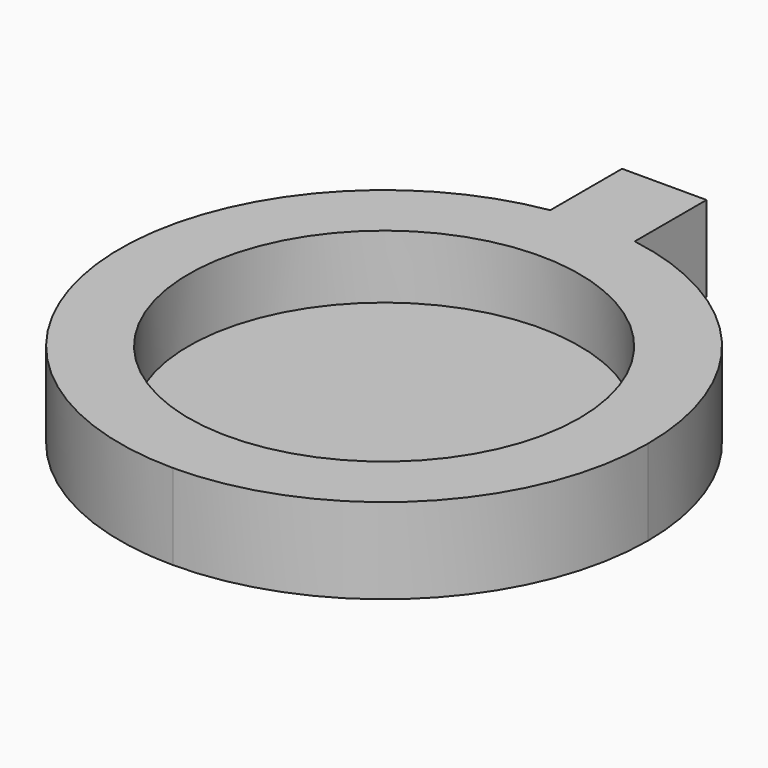
from build123d import *

# Parameters (mm, degrees)
F1_DEPTH = 8.1
F3_R     = 18.5
F4_DEPTH = 6


with BuildPart() as f1:
    # F0 (on Top) → F1 (new body)
    with BuildSketch(Plane.XY):
        with BuildLine():
            ThreePointArc((-4, 24.677925), (-24.919351, -2.006473), (0, -25))
            Line((0, -25), (0, 25))
            ThreePointArc((0, 25), (-2.006473, 24.919351), (-4, 24.677925))
        make_face()
        with BuildLine():
            ThreePointArc((0, -25), (17.67767, -17.67767), (25, 0))
            ThreePointArc((25, 0), (19.039433, 16.201852), (4, 24.677925))
            ThreePointArc((4, 24.677925), (2.006473, 24.919351), (0, 25))
            Line((0, 25), (0, -25))
        make_face()
        with BuildLine():
            ThreePointArc((0, 25), (2.006473, 24.919351), (4, 24.677925))
            Line((4, 24.677925), (4, 33.177925))
            Line((4, 33.177925), (-4, 33.177925))
            Line((-4, 33.177925), (-4, 24.677925))
            ThreePointArc((-4, 24.677925), (-2.006473, 24.919351), (0, 25))
        make_face()
    extrude(amount=F1_DEPTH)

    # F3 (on face) → F4 (cut)
    with BuildSketch(Plane.XY.offset(8.1)):
        Circle(F3_R)
    extrude(amount=-F4_DEPTH, mode=Mode.SUBTRACT)


solid = f1.part
